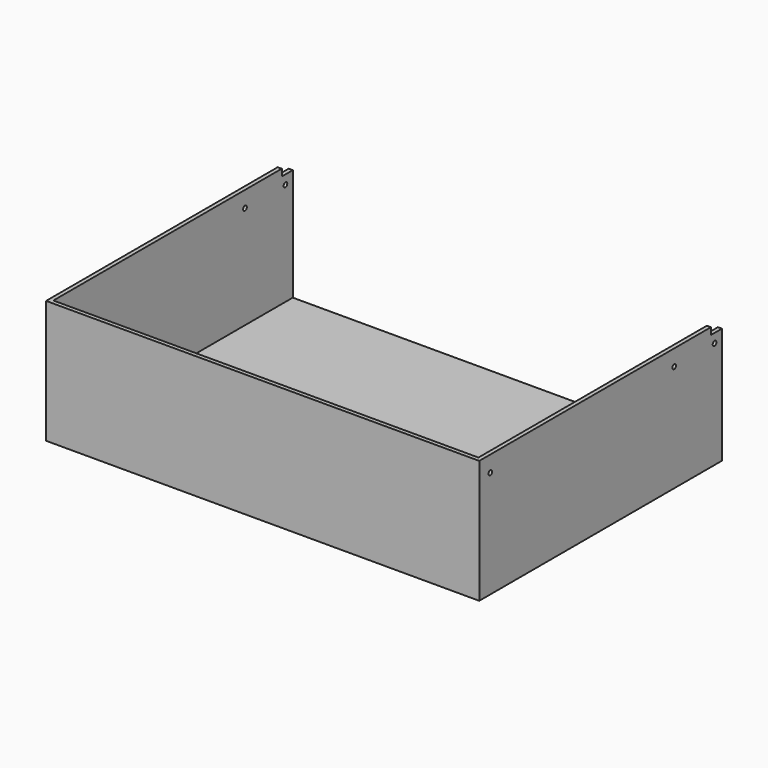
from build123d import *

# Parameters (mm, degrees)
F0_W          = 598.4875
F0_H          = 170.18
F1_DEPTH      = 2.794
F2_W          = 5.588
F2_H          = 170.18
F3_DEPTH      = 419.1
F4_W          = 587.3115
F4_H          = 5.588
F5_DEPTH      = 413.512
F6_W          = 19.05
F6_H          = 9.525
F7_DEPTH      = 598.4885
F8_R          = 3.175
F9_DEPTH      = 5.589
F9_DEPTH_BACK = 592.9005


with BuildPart() as f1:
    # F0 (on Front) → F1 (new body, symmetric)
    with BuildSketch(Plane.XZ):
        Rectangle(F0_W, F0_H)
    extrude(amount=F1_DEPTH, both=True)

    # F2 (on face) → F3 (join)
    with BuildSketch(Plane.XZ.offset(2.794)):
        with Locations((-296.44975, 0)):
            Rectangle(F2_W, F2_H)
        with Locations((296.44975, 0)):
            Rectangle(F2_W, F2_H)
    extrude(amount=-F3_DEPTH)

    # F4 (on face) → F5 (join, through all)
    with BuildSketch(Plane(origin=(0, 2.794, 0), x_dir=(-1, 0, 0), z_dir=(0, 1, 0))):
        with Locations((0, -82.296)):
            Rectangle(F4_W, F4_H)
    extrude(amount=F5_DEPTH)

    # F6 (on face) → F7 (cut, through all)
    with BuildSketch(Plane.YZ.offset(299.24375)):
        with Locations((406.781, 80.3275)):
            Rectangle(F6_W, F6_H)
    extrude(amount=-F7_DEPTH, mode=Mode.SUBTRACT)

    # F8 (on face) → F9 (cut, two sides)
    with BuildSketch(Plane.YZ.offset(-293.65575)) as f9_sk:
        with Locations((403.606, 62.865)):
            Circle(F8_R)
        with Locations((333.756, 62.865)):
            Circle(F8_R)
        with Locations((16.256, 62.865)):
            Circle(F8_R)
    extrude(amount=-F9_DEPTH, mode=Mode.SUBTRACT)
    extrude(f9_sk.sketch, amount=F9_DEPTH_BACK, mode=Mode.SUBTRACT)


solid = f1.part
